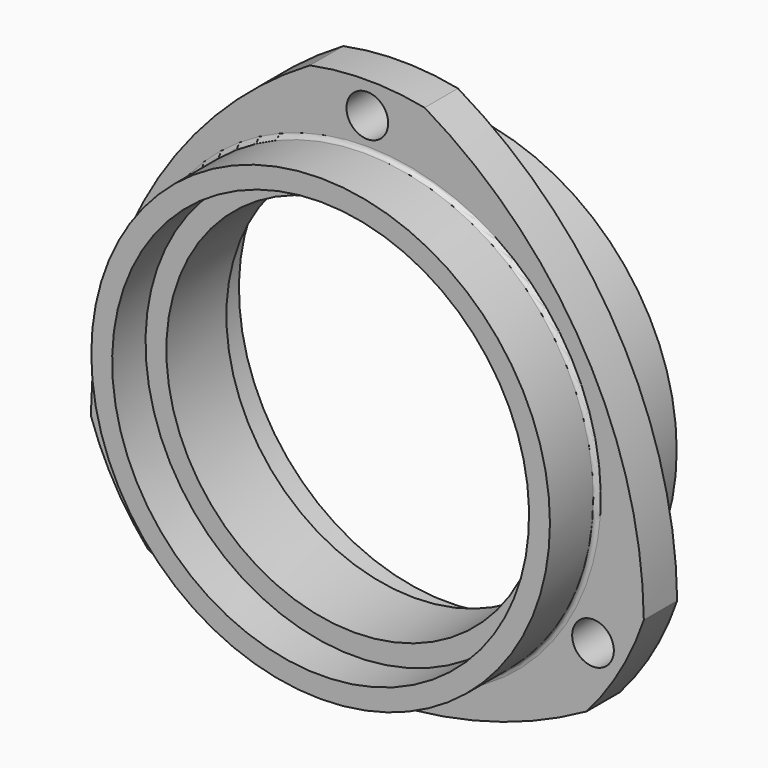
from build123d import *

# Parameters (mm, degrees)
F2_R     = 5
F3_DEPTH = 24.001
F4_R     = 81.962232
F5_DEPTH = 24.001
F6_R     = 1


with BuildPart() as f1:
    # F0 (on Right) → F1 (revolve)
    with BuildSketch(Plane.YZ):
        Polygon((-19, 55), (-19, 50), (-9, 50), (-9, 45), (9, 45), (9, 50), (19, 50), (19, 55), (5, 55), (5, 70), (-5, 70), (-5, 55), align=None)
    revolve(axis=Axis((0, 0.467166, 0), (0, 1, 0)))

    # F2 (on face) → F3 (cut, through all)
    with BuildSketch(Plane.XZ.offset(5)):
        with Locations((0, 62.5)):
            Circle(F2_R)
        with Locations((-54.126588, -31.25)):
            Circle(F2_R)
        with Locations((54.126588, -31.25)):
            Circle(F2_R)
    extrude(amount=-F3_DEPTH, mode=Mode.SUBTRACT)

    # F4 (on face) → F5 (cut, through all)
    with BuildSketch(Plane.XZ.offset(5)):
        Circle(F4_R)
        with BuildLine():
            ThreePointArc((-13.741895, 68.637893), (0, 70), (13.741895, 68.637893))
            ThreePointArc((13.741895, 68.637893), (51.961524, 30), (66.313106, -22.418116))
            ThreePointArc((66.313106, -22.418116), (60.621778, -35), (52.571211, -46.219777))
            ThreePointArc((52.571211, -46.219777), (0, -60), (-52.571211, -46.219777))
            ThreePointArc((-52.571211, -46.219777), (-60.621778, -35), (-66.313106, -22.418116))
            ThreePointArc((-66.313106, -22.418116), (-51.961524, 30), (-13.741895, 68.637893))
        make_face(mode=Mode.SUBTRACT)
    extrude(amount=-F5_DEPTH, mode=Mode.SUBTRACT)

    # F6
    f6_edges = [f1.edges().sort_by_distance(p)[0] for p in [
        (0, -5, -55),
        (0, 5, -55),
    ]]
    fillet(f6_edges, radius=F6_R)


solid = f1.part
